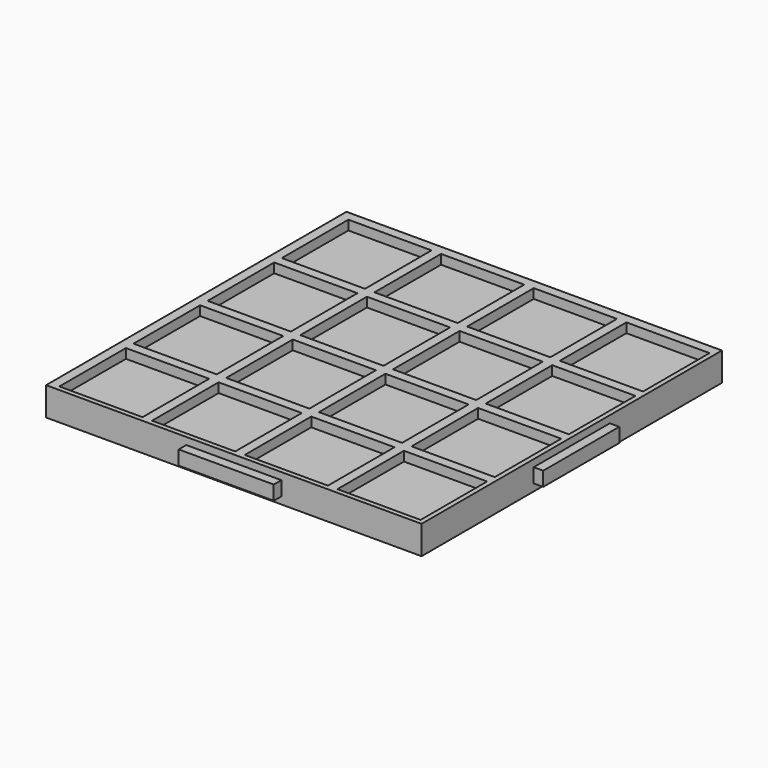
from build123d import *

# Parameters (mm, degrees)
F0_W     = 100.33
F0_H     = 100.33
F1_DEPTH = 7.62
F2_W     = 22.225
F2_H     = 22.225
F3_DEPTH = 2.54
F5_W     = 25.4
F5_H     = 3.81
F6_DEPTH = 2.54
F4_W     = 25.4
F4_H     = 3.81
F7_DEPTH = 2.54


with BuildPart() as f1:
    # F0 (on Top) → F1 (new body)
    with BuildSketch(Plane.XY):
        with Locations((50.165, 50.165)):
            Rectangle(F0_W, F0_H)
    extrude(amount=-F1_DEPTH)

    # F2 (on Top) → F3 (cut)
    with BuildSketch(Plane.XY):
        with Locations((13.6525, 86.6775)):
            Rectangle(F2_W, F2_H)
        with Locations((38.4175, 86.6775)):
            Rectangle(F2_W, F2_H)
        with Locations((63.1825, 86.6775)):
            Rectangle(F2_W, F2_H)
        with Locations((87.9475, 86.6775)):
            Rectangle(F2_W, F2_H)
        with Locations((13.6525, 61.9125)):
            Rectangle(F2_W, F2_H)
        with Locations((13.6525, 37.1475)):
            Rectangle(F2_W, F2_H)
        with Locations((13.6525, 12.3825)):
            Rectangle(F2_W, F2_H)
        with Locations((38.4175, 61.9125)):
            Rectangle(F2_W, F2_H)
        with Locations((63.1825, 61.9125)):
            Rectangle(F2_W, F2_H)
        with Locations((87.9475, 61.9125)):
            Rectangle(F2_W, F2_H)
        with Locations((38.4175, 37.1475)):
            Rectangle(F2_W, F2_H)
        with Locations((38.4175, 12.3825)):
            Rectangle(F2_W, F2_H)
        with Locations((63.1825, 37.1475)):
            Rectangle(F2_W, F2_H)
        with Locations((87.9475, 37.1475)):
            Rectangle(F2_W, F2_H)
        with Locations((63.1825, 12.3825)):
            Rectangle(F2_W, F2_H)
        with Locations((87.9475, 12.3825)):
            Rectangle(F2_W, F2_H)
    extrude(amount=-F3_DEPTH, mode=Mode.SUBTRACT)

    # F5 (on face) → F6 (join)
    with BuildSketch(Plane.YZ.offset(100.33)):
        with Locations((50.165, -3.81)):
            Rectangle(F5_W, F5_H)
    extrude(amount=F6_DEPTH)

    # F4 (on face) → F7 (join)
    with BuildSketch(Plane.XZ):
        with Locations((50.165, -3.81)):
            Rectangle(F4_W, F4_H)
    extrude(amount=F7_DEPTH)


solid = f1.part
